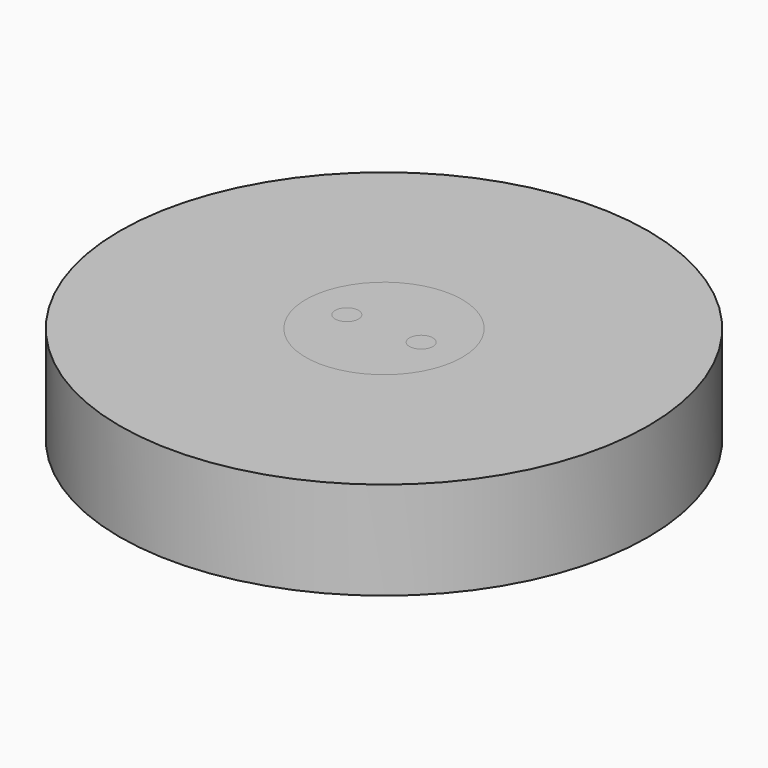
from build123d import *

# Parameters (mm, degrees)
F0_R     = 13.5
F1_DEPTH = 5
F2_R     = 5
F3_DEPTH = 3
F4_R     = 4
F5_DEPTH = 25
F6_R     = 4
F7_DEPTH = 8
F8_R     = 0.6
F9_DEPTH = 10


with BuildPart() as f1:
    # F0 (on Top) → F1 (new body)
    with BuildSketch(Plane.XY):
        Circle(F0_R)
    extrude(amount=F1_DEPTH)

    # F2 (on face) → F3 (join)
    with BuildSketch(Plane(origin=(0, 0, 0), x_dir=(1, 0, 0), z_dir=(0, 0, -1))):
        Circle(F2_R)
    extrude(amount=F3_DEPTH)

    # F4 (on face) → F5 (cut)
    with BuildSketch(Plane.XY.offset(5)):
        Circle(F4_R)
    extrude(amount=-F5_DEPTH, mode=Mode.SUBTRACT)


with BuildPart() as f7:
    # F6 (on face) → F7 (new body)
    with BuildSketch(Plane.XY.offset(5)):
        Circle(F6_R)
    extrude(amount=-F7_DEPTH)


with BuildPart() as f9:
    # F8 (on face) → F9 (new body)
    with BuildSketch(Plane.XY.offset(5)):
        with Locations((-1.9, 0)):
            Circle(F8_R)
        with Locations((1.9, 0)):
            Circle(F8_R)
    extrude(amount=-F9_DEPTH)


solid = Compound([f1.part, f7.part, f9.part])
